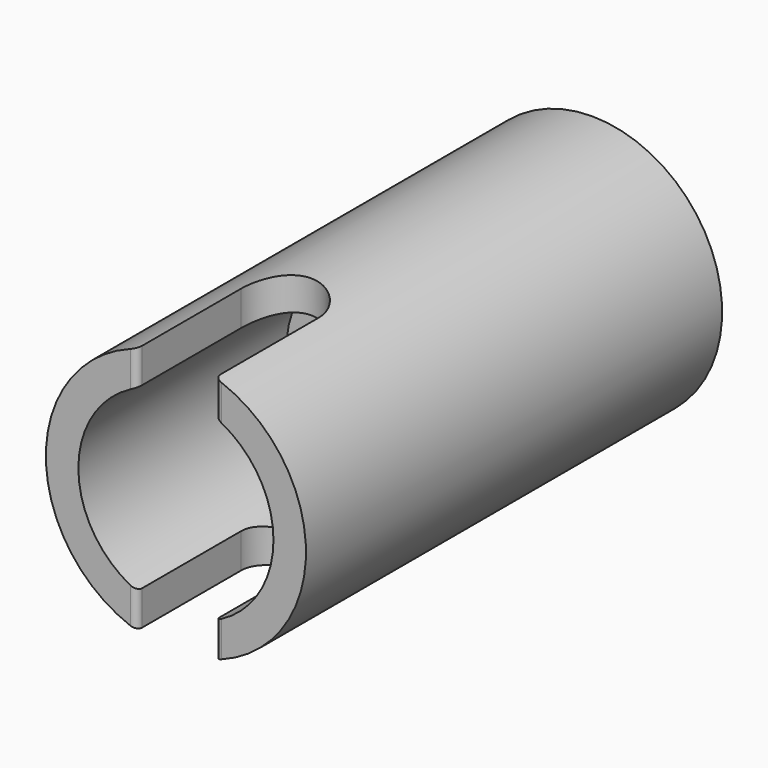
from build123d import *

# Parameters (mm, degrees)
F3_DEPTH      = 10.001
F3_DEPTH_BACK = 10.001
F4_R          = 0.5


with BuildPart() as f1:
    # F0 (on Right) → F1 (revolve)
    with BuildSketch(Plane.YZ):
        Polygon((-20, 3), (0, 3), (0, 10), (-40, 10), (-40, 7.5), (-20, 7.5), align=None)
    revolve(axis=Axis((0, -10.6568620467, 0), (0, -1, 0)))

    # F2 (on Top) → F3 (cut, two sides)
    with BuildSketch(Plane.XY) as f3_sk:
        with BuildLine():
            Line((-3, -30), (-3, -40))
            Line((-3, -40), (3, -40))
            Line((3, -40), (3, -30))
            ThreePointArc((3, -30), (0, -27), (-3, -30))
        make_face()
    extrude(amount=-F3_DEPTH, mode=Mode.SUBTRACT)
    extrude(f3_sk.sketch, amount=F3_DEPTH_BACK, mode=Mode.SUBTRACT)

    # F4
    f4_edges = [f1.edges().sort_by_distance(p)[0] for p in [
        (-3, -40, 8.206628),
        (-3, -40, -8.206628),
        (3, -40, 8.206628),
        (3, -40, -8.206628),
    ]]
    fillet(f4_edges, radius=F4_R)


solid = f1.part
